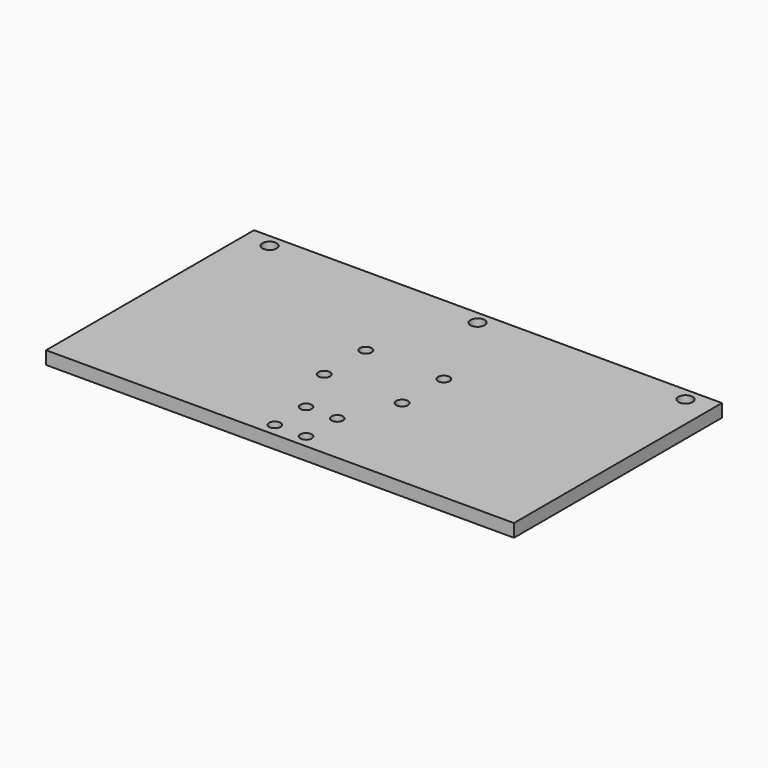
from build123d import *

# Parameters (mm, degrees)
F0_W     = 180
F0_H     = 100
F2_DEPTH = 5
F3_D     = 5.5
F5_D     = 4.5
F7_D     = 4.4
F7_DEPTH = 12
F7_TIP   = 1.3218933619


with BuildPart() as f2:
    # F0 (on Top) → F2 (new body)
    with BuildSketch(Plane.XY):
        with Locations((39.8463645577, 50)):
            Rectangle(F0_W, F0_H)
    extrude(amount=-F2_DEPTH)

    # F3 (through all)
    with Locations(Plane.XY):
        with Locations((-140.1536354423, 95), (-40.1536354423, 95), (119.8463645577, 95), (219.8463645577, 95), (39.8463645577, 95)):
            Hole(F3_D / 2)

    # F5 (through all)
    with Locations(Plane(origin=(0, 0, -5), x_dir=(1, 0, 0), z_dir=(0, 0, -1))):
        with Locations((24.8463645577, -40), (54.8463645577, -40), (54.8463645577, -60), (24.8463645577, -60)):
            Hole(F5_D / 2)

    # F7
    with Locations(Plane.XY):
        with Locations((33.8463645577, 20), (45.8463645577, 20), (45.8463645577, 5), (33.8463645577, 5)):
            Hole(F7_D / 2, depth=F7_DEPTH)
            with Locations((0, 0, -(F7_DEPTH + F7_TIP / 2))):  # 118° drill point
                Cone(0, F7_D / 2, F7_TIP, mode=Mode.SUBTRACT)


solid = f2.part
